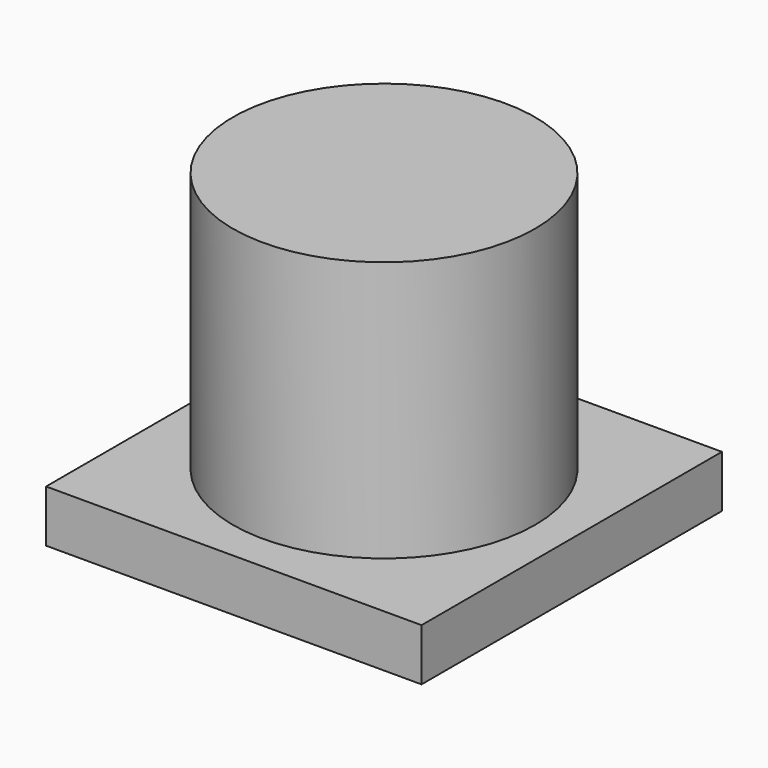
from build123d import *

# Parameters (mm, degrees)
SKETCH_W     = 72
SKETCH_H     = 72
PAD_DEPTH    = 10
SKETCH001_R  = 28.97589
PAD001_DEPTH = 50


with BuildPart() as part:
    # Sketch → Pad (new body)
    with BuildSketch(Plane.XY):
        with Locations((36, 36)):
            Rectangle(SKETCH_W, SKETCH_H)
    extrude(amount=PAD_DEPTH)

    # Sketch001 (on Face6 of Pad) → Pad001 (join)
    with BuildSketch(Plane.XY.offset(10)):
        with Locations((36, 36)):
            Circle(SKETCH001_R)
    extrude(amount=PAD001_DEPTH)


solid = part.part
